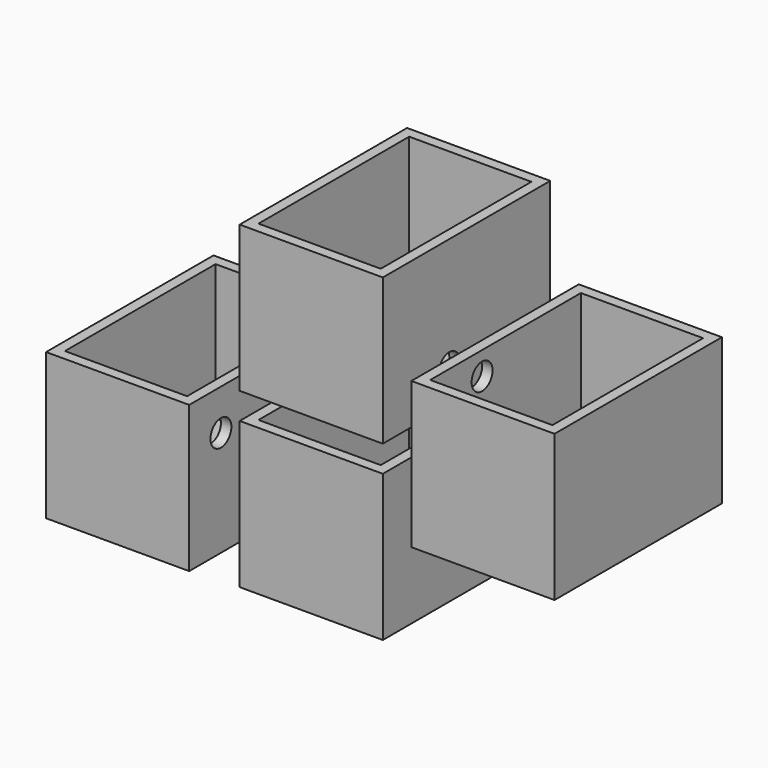
from build123d import *

# Parameters (mm, degrees)
F0_W      = 34.7495928857
F0_H      = 35.5289168656
F4_DEPTH  = 50.8
F1_W      = 34.7495928857
F1_H      = 35.5289168656
F2_W      = 34.7495928857
F2_H      = 35.5289168656
F3_W      = 34.7495928857
F3_H      = 35.5289168656
F5_T      = -2.54
F5_2_T    = -2.54
F5_3_T    = -2.54
F5_4_T    = -2.54
F7_D      = 6.35
F7_DEPTH  = 12.7
F7_TIP    = 1.9077324654
F9_D      = 6.35
F9_DEPTH  = 12.7
F9_TIP    = 1.9077324654
F11_D     = 6.35
F11_DEPTH = 12.7
F11_TIP   = 1.9077324654
F13_D     = 6.35
F13_DEPTH = 12.7
F13_TIP   = 1.9077324654
F15_D     = 6.35
F15_DEPTH = 12.7
F15_TIP   = 1.9077324654
F17_D     = 6.35
F17_DEPTH = 12.7
F17_TIP   = 1.9077324654


with BuildPart() as f4:
    # F0 (on Front) → F4 (new body)
    with BuildSketch(Plane.XZ):
        with Locations((0, 27.4160150439)):
            Rectangle(F0_W, F0_H)
    extrude(amount=F4_DEPTH)

    # F5#3
    f5_3_openings = [f4.faces().sort_by_distance(p)[0] for p in [
        (0, -25.4, 45.180473),
    ]]
    offset(amount=F5_3_T, openings=f5_3_openings)

    # F7
    with Locations(Plane.YZ.offset(17.3747964428)):
        with Locations((-30.6251663715, 17.8674012423)):
            Hole(F7_D / 2, depth=F7_DEPTH)
            with Locations((0, 0, -(F7_DEPTH + F7_TIP / 2))):  # 118° drill point
                Cone(0, F7_D / 2, F7_TIP, mode=Mode.SUBTRACT)


with BuildPart() as f4b:
    # F1 (on Front) → F4, piece 2 (new body)
    with BuildSketch(Plane.XZ):
        with Locations((41.6835285723, 7.5533916242)):
            Rectangle(F1_W, F1_H)
    extrude(amount=F4_DEPTH)

    # F5#4
    f5_4_openings = [f4b.faces().sort_by_distance(p)[0] for p in [
        (41.683529, -25.4, 25.31785),
    ]]
    offset(amount=F5_4_T, openings=f5_4_openings)

    # F9
    with Locations(Plane(origin=(24.3087321295, 0, 0), x_dir=(0, -1, 0), z_dir=(-1, 0, 0))):
        with Locations((32.5200334191, 19.6956023574)):
            Hole(F9_D / 2, depth=F9_DEPTH)
            with Locations((0, 0, -(F9_DEPTH + F9_TIP / 2))):  # 118° drill point
                Cone(0, F9_D / 2, F9_TIP, mode=Mode.SUBTRACT)

    # F11
    with Locations(Plane(origin=(24.3087321295, 0, 0), x_dir=(0, -1, 0), z_dir=(-1, 0, 0))):
        with Locations((31.3509069383, -4.3948837556)):
            Hole(F11_D / 2, depth=F11_DEPTH)
            with Locations((0, 0, -(F11_DEPTH + F11_TIP / 2))):  # 118° drill point
                Cone(0, F11_D / 2, F11_TIP, mode=Mode.SUBTRACT)


with BuildPart() as f4c:
    # F2 (on Front) → F4, piece 3 (new body)
    with BuildSketch(Plane.XZ):
        with Locations((0, -14.5472735167)):
            Rectangle(F2_W, F2_H)
    extrude(amount=F4_DEPTH)

    # F5#2
    f5_2_openings = [f4c.faces().sort_by_distance(p)[0] for p in [
        (0, -25.4, 3.217185),
    ]]
    offset(amount=F5_2_T, openings=f5_2_openings)

    # F13
    with Locations(Plane.YZ.offset(17.3747964428)):
        with Locations((-32.5233004987, -6.5888143145)):
            Hole(F13_D / 2, depth=F13_DEPTH)
            with Locations((0, 0, -(F13_DEPTH + F13_TIP / 2))):  # 118° drill point
                Cone(0, F13_D / 2, F13_TIP, mode=Mode.SUBTRACT)

    # F15
    with Locations(Plane(origin=(-17.3747964428, 0, 0), x_dir=(0, -1, 0), z_dir=(-1, 0, 0))):
        with Locations((39.3745787442, -25.2931974828)):
            Hole(F15_D / 2, depth=F15_DEPTH)
            with Locations((0, 0, -(F15_DEPTH + F15_TIP / 2))):  # 118° drill point
                Cone(0, F15_D / 2, F15_TIP, mode=Mode.SUBTRACT)


with BuildPart() as f4d:
    # F3 (on Front) → F4, piece 4 (new body)
    with BuildSketch(Plane.XZ):
        with Locations((-47.0004864037, -15.1067832485)):
            Rectangle(F3_W, F3_H)
    extrude(amount=F4_DEPTH)

    # F5
    f5_openings = [f4d.faces().sort_by_distance(p)[0] for p in [
        (-47.000486, -25.4, 2.657675),
    ]]
    offset(amount=F5_T, openings=f5_openings)

    # F17
    with Locations(Plane.YZ.offset(-29.6256899609)):
        with Locations((-41.1799475551, -7.2249141522)):
            Hole(F17_D / 2, depth=F17_DEPTH)
            with Locations((0, 0, -(F17_DEPTH + F17_TIP / 2))):  # 118° drill point
                Cone(0, F17_D / 2, F17_TIP, mode=Mode.SUBTRACT)


solid = Compound([f4.part, f4b.part, f4c.part, f4d.part])
